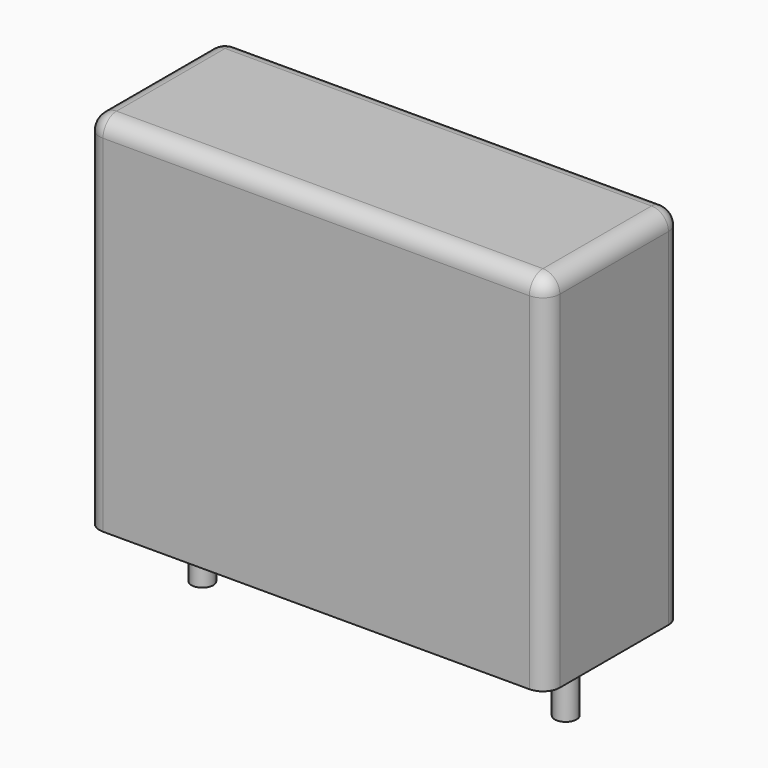
from build123d import *

# Parameters (mm, degrees)
SKETCH_W     = 19
SKETCH_H     = 7
PAD_DEPTH    = 15
FILLET_R     = 0.7
SKETCH001_R  = 0.45
PAD001_DEPTH = 3.2


with BuildPart() as fillet_body:
    # Sketch → Pad (new body)
    with BuildSketch(Plane.XY.offset(0.1)):
        with Locations((7.5, 0)):
            Rectangle(SKETCH_W, SKETCH_H)
    extrude(amount=PAD_DEPTH)

    # Fillet
    fillet_edges = [fillet_body.edges().sort_by_distance(p)[0] for p in [
        (-2, 0, 15.1),
        (-2, -3.5, 7.6),
        (7.5, -3.5, 15.1),
        (17, -3.5, 7.6),
        (17, 0, 15.1),
        (17, 3.5, 7.6),
        (7.5, 3.5, 15.1),
        (-2, 3.5, 7.6),
    ]]
    fillet(fillet_edges, radius=FILLET_R)


with BuildPart() as pad001:
    # Sketch001 → Pad001 (new body)
    with BuildSketch(Plane.XY.offset(0.5)):
        Circle(SKETCH001_R)
        with Locations((15, 0)):
            Circle(SKETCH001_R)
    extrude(amount=-PAD001_DEPTH)


solid = Compound([fillet_body.part, pad001.part])
